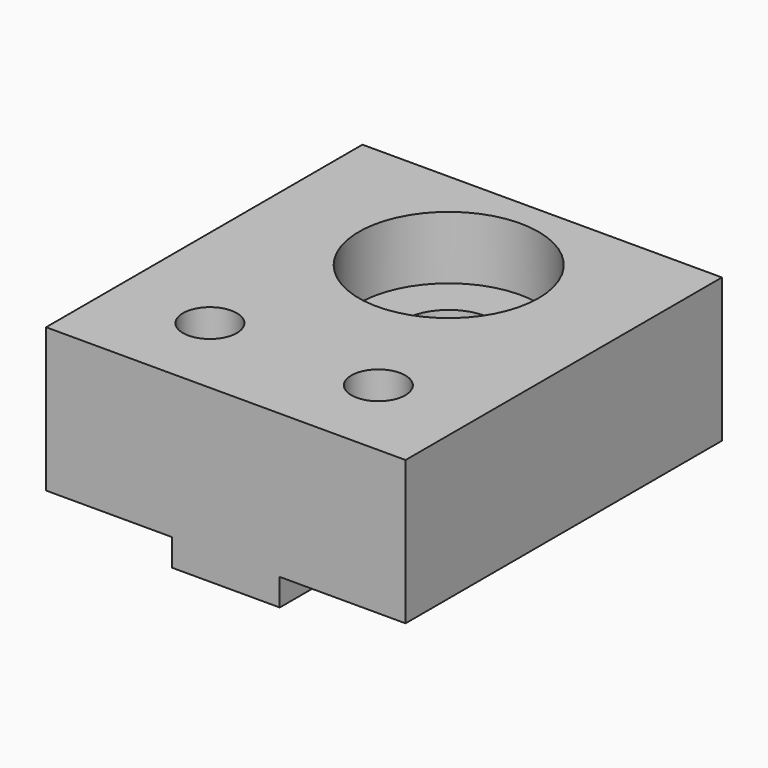
from build123d import *

# Parameters (mm, degrees)
F0_W          = 6
F0_H          = 1.5
F1_DEPTH      = 22
F2_R          = 2.5
F3_DEPTH      = 25
F3_DEPTH_BACK = 25
F4_START      = 0.5
F2_R_2        = 5
F2_R_3        = 4
F4_DEPTH      = 24.5
F2_R_4        = 1.5
F5_DEPTH      = 25
F5_DEPTH_BACK = 25
F6_DEPTH      = 25
F6_DEPTH_BACK = 1.5
F7_START      = -4
F7_DEPTH      = 21


with BuildPart() as f1:
    # F0 (on Front) → F1 (new body)
    with BuildSketch(Plane.XZ):
        with Locations((0, -4.75)):
            Rectangle(F0_W, F0_H)
        Polygon((3, -4), (10, -4), (10, 4), (-10, 4), (-10, -4), (-3, -4), align=None)
    extrude(amount=F1_DEPTH)

    # F2 (on Top) → F3 (cut, two sides)
    with BuildSketch(Plane.XY) as f3_sk:
        with Locations((0, -6.5)):
            Circle(F2_R)
    extrude(amount=F3_DEPTH, mode=Mode.SUBTRACT)
    extrude(f3_sk.sketch, amount=-F3_DEPTH_BACK, mode=Mode.SUBTRACT)

    # F2 (on Top) → F4 (cut)
    with BuildSketch(Plane.XY.offset(F4_START)):
        with Locations((0, -6.5)):
            Circle(F2_R_2)
        with Locations((0, -6.5)):
            Circle(F2_R_3, mode=Mode.SUBTRACT)
        with Locations((0, -6.5)):
            Circle(F2_R_3)
        with Locations((0, -6.5)):
            Circle(F2_R, mode=Mode.SUBTRACT)
    extrude(amount=F4_DEPTH, mode=Mode.SUBTRACT)

    # F2 (on Top) → F5 (cut, two sides)
    with BuildSketch(Plane.XY) as f5_sk:
        with Locations((-4.685, -17.2488261014)):
            Circle(F2_R_4)
        with Locations((4.685, -17.2488261014)):
            Circle(F2_R_4)
    extrude(amount=F5_DEPTH, mode=Mode.SUBTRACT)
    extrude(f5_sk.sketch, amount=-F5_DEPTH_BACK, mode=Mode.SUBTRACT)

    # F2 (on Top) → F6 (cut, two sides)
    with BuildSketch(Plane.XY) as f6_sk:
        Polygon((-1.85, -18.8856141146), (-1.85, -15.6120380883), (-4.685, -13.9752500751), (-7.52, -15.6120380883), (-7.52, -18.8856141146), (-4.685, -20.5224021277), align=None)
        with Locations((-4.685, -17.2488261014)):
            Circle(F2_R_4, mode=Mode.SUBTRACT)
        Polygon((7.52, -18.8856141146), (7.52, -15.6120380883), (4.685, -13.9752500751), (1.85, -15.6120380883), (1.85, -18.8856141146), (4.685, -20.5224021277), align=None)
        with Locations((4.685, -17.2488261014)):
            Circle(F2_R_4, mode=Mode.SUBTRACT)
    extrude(amount=-F6_DEPTH, mode=Mode.SUBTRACT)
    extrude(f6_sk.sketch, amount=F6_DEPTH_BACK, mode=Mode.SUBTRACT)

    # F2 (on Top) → F7 (cut)
    with BuildSketch(Plane.XY.offset(F7_START)):
        with Locations((0, -6.5)):
            Circle(F2_R_3)
        with Locations((0, -6.5)):
            Circle(F2_R, mode=Mode.SUBTRACT)
    extrude(amount=-F7_DEPTH, mode=Mode.SUBTRACT)


solid = f1.part
